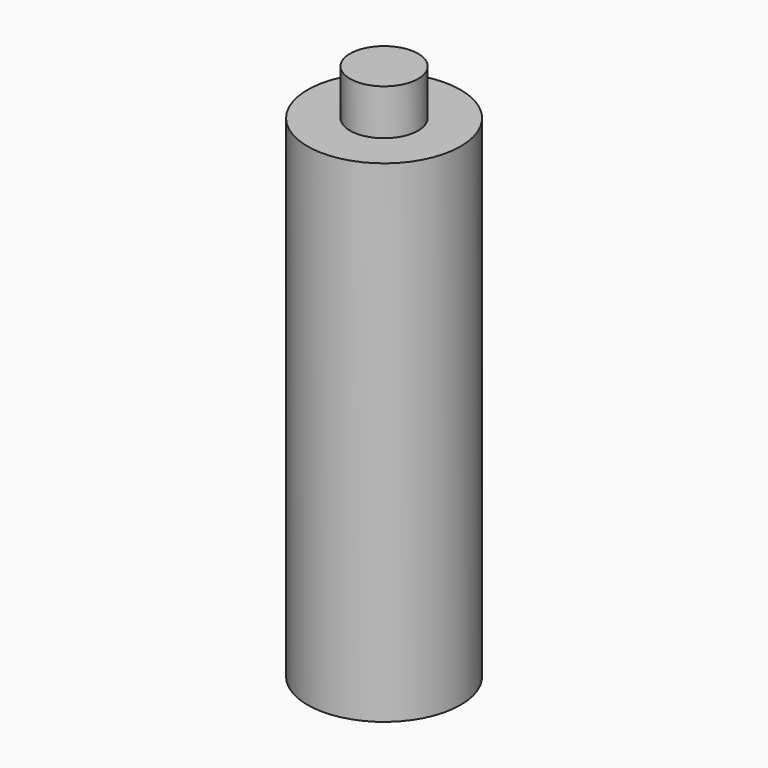
from build123d import *

# Parameters (mm, degrees)
F0_R     = 10.9
F1_DEPTH = 70
F5_R     = 4.85
F6_DEPTH = 6.5


with BuildPart() as f1:
    # F0 (on Top) → F1 (new body)
    with BuildSketch(Plane.XY):
        Circle(F0_R)
    extrude(amount=F1_DEPTH)

    # F2 (on Front) → F3 (revolve, cut)
    with BuildSketch(Plane.XZ):
        with BuildLine():
            Line((0, 41.7), (0, 0))
            Line((0, 0), (10.5, 0))
            ThreePointArc((10.5, 0), (7.947904, 4.964478), (3.8, 8.7))
            Line((3.8, 8.7), (3.8, 41.7))
            Line((3.8, 41.7), (0, 41.7))
        make_face()
    revolve(axis=Axis((0, 0, 20.85), (0, 0, -1)), mode=Mode.SUBTRACT)

    # F5 (on offset) → F6 (join)
    with BuildSketch(Plane.XY.offset(70)):
        Circle(F5_R)
    extrude(amount=F6_DEPTH)


solid = f1.part
